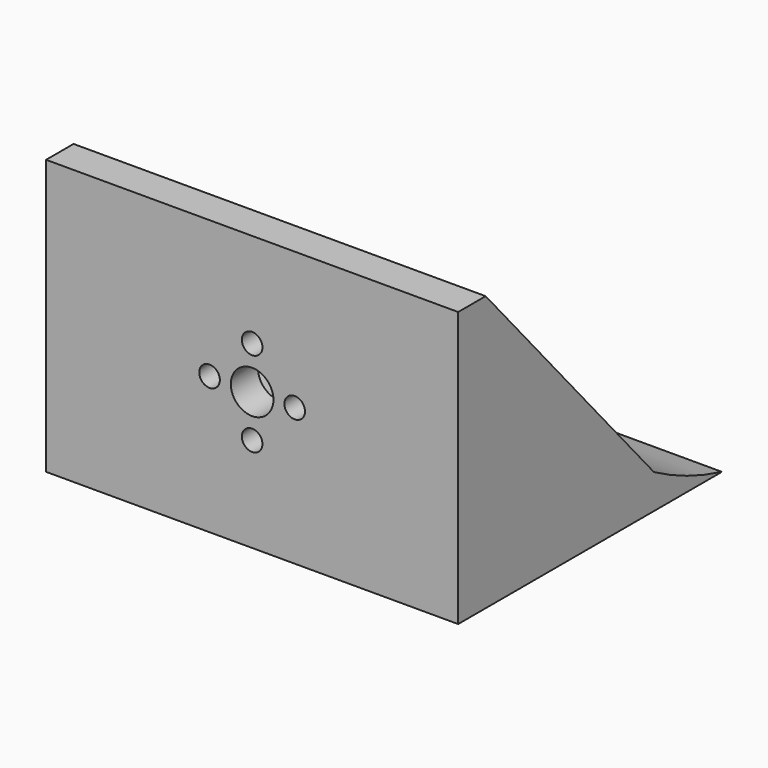
from build123d import *

# Parameters (mm, degrees)
F1_DEPTH  = 76.2
F2_T      = -6.35
F3_W      = 76.2
F3_H      = 50.8
F3_H_2    = 10.16
F4_DEPTH  = 6.35
F6_DEPTH  = 76.2
F7_R      = 3.937
F7_R_2    = 1.905
F8_DEPTH  = 25.4
F9_W      = 63.5
F9_H      = 38.89375
F10_DEPTH = 3.175
F11_W     = 63.5
F11_H     = 37.67111
F12_DEPTH = 0.0762


with BuildPart() as f1:
    # F0 (on Right) → F1 (new body)
    with BuildSketch(Plane.YZ):
        Polygon((-34.085404, 0), (0, 0), (16.714596, 0), (-27.735404, 50.8), (-34.085404, 50.8), align=None)
    extrude(amount=F1_DEPTH)

    # F2
    f2_openings = [f1.faces().sort_by_distance(p)[0] for p in [
        (38.1, -5.510404, 25.4),
    ]]
    offset(amount=F2_T, openings=f2_openings)

    # F3 (on face) → F4 (join)
    with BuildSketch(Plane(origin=(0, 0, 0), x_dir=(1, 0, 0), z_dir=(0, 0, -1))):
        with Locations((38.1, 8.685404)):
            Rectangle(F3_W, F3_H)
        with Locations((38.1, -21.794596)):
            Rectangle(F3_W, F3_H_2)
    extrude(amount=-F4_DEPTH)

    # F5 (on face) → F6 (cut)
    with BuildSketch(Plane.YZ.offset(76.2)):
        with BuildLine():
            Line((26.874596, 6.35), (11.158346, 6.35))
            ThreePointArc((11.158346, 6.35), (18.798291, 2.635004), (26.874596, 0))
            Line((26.874596, 0), (26.874596, 6.35))
        make_face()
    extrude(amount=-F6_DEPTH, mode=Mode.SUBTRACT)

    # F7 (on face) → F8 (cut)
    with BuildSketch(Plane.XZ.offset(34.085404)):
        with Locations((38.1, 25.4)):
            Circle(F7_R)
        with Locations((38.1, 33.274)):
            Circle(F7_R_2)
        with Locations((38.1, 17.526)):
            Circle(F7_R_2)
        with Locations((30.226, 25.4)):
            Circle(F7_R_2)
        with Locations((45.974, 25.4)):
            Circle(F7_R_2)
    extrude(amount=-F8_DEPTH, mode=Mode.SUBTRACT)

    # F9 (on face) → F10 (cut)
    with BuildSketch(Plane.XY.offset(6.35)):
        with Locations((38.1, -8.288529)):
            Rectangle(F9_W, F9_H)
    extrude(amount=-F10_DEPTH, mode=Mode.SUBTRACT)

    # F11 (on face) → F12 (cut)
    with BuildSketch(Plane(origin=(0, -27.735404, 0), x_dir=(-1, 0, 0), z_dir=(0, 1, 0))):
        with Locations((-38.1, 25.614445)):
            Rectangle(F11_W, F11_H)
    extrude(amount=-F12_DEPTH, mode=Mode.SUBTRACT)


solid = f1.part
